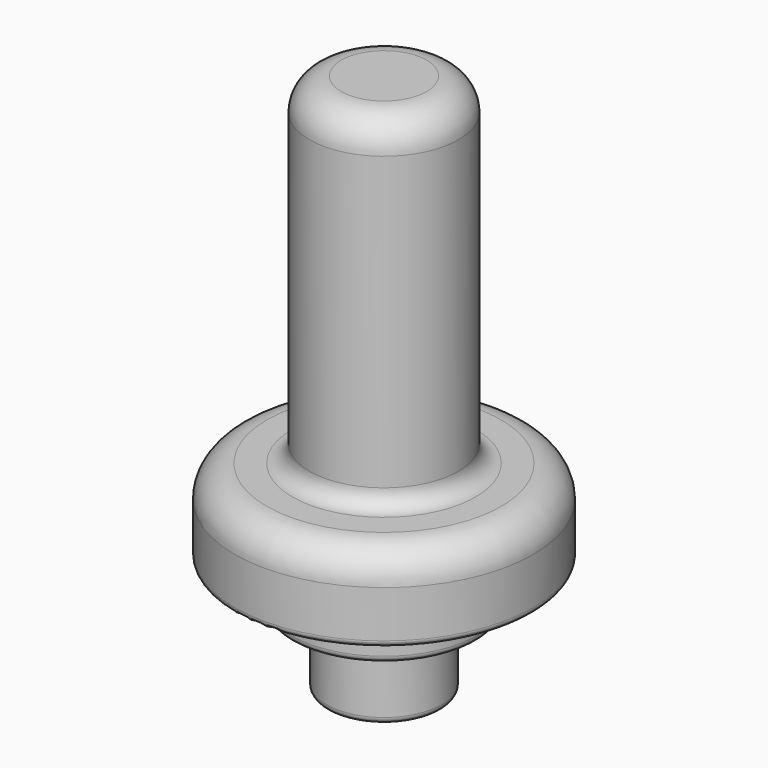
from build123d import *


with BuildPart() as f1:
    # F0 (on Front) → F1 (revolve)
    with BuildSketch(Plane.XZ):
        with BuildLine():
            Line((-12.0408802647, 0), (0, 0))
            Line((0, 0), (0, 17))
            Line((0, 17), (0, 27))
            Line((0, 27), (0, 47))
            Line((0, 47), (0, 127))
            Line((0, 127), (-10, 127))
            ThreePointArc((-10, 127), (-15.3033008589, 124.8033008589), (-17.5, 119.5))
            Line((-17.5, 119.5), (-17.5, 51))
            ThreePointArc((-17.5, 51), (-18.6715728753, 48.1715728753), (-21.5, 47))
            Line((-21.5, 47), (-27.5, 47))
            ThreePointArc((-27.5, 47), (-32.8033008589, 44.8033008589), (-35, 39.5))
            Line((-35, 39.5), (-35, 28.5))
            ThreePointArc((-35, 28.5), (-34.5606601718, 27.4393398282), (-33.5, 27))
            Line((-33.5, 27), (-23.8841834813, 27))
            ThreePointArc((-23.8841834813, 27), (-22.469969919, 26.4142135624), (-21.8841834813, 25))
            Line((-21.8841834813, 25), (-21.8841834813, 18.5))
            ThreePointArc((-21.8841834813, 18.5), (-21.4448436531, 17.4393398282), (-20.3841834813, 17))
            Line((-20.3841834813, 17), (-15.5408802647, 17))
            ThreePointArc((-15.5408802647, 17), (-14.1266667023, 16.4142135624), (-13.5408802647, 15))
            Line((-13.5408802647, 15), (-13.5408802647, 1.5))
            ThreePointArc((-13.5408802647, 1.5), (-13.1015404364, 0.4393398282), (-12.0408802647, 0))
        make_face()
    revolve(axis=Axis((0, 0, 51.4621874318), (0, 0, 1)))


solid = f1.part
